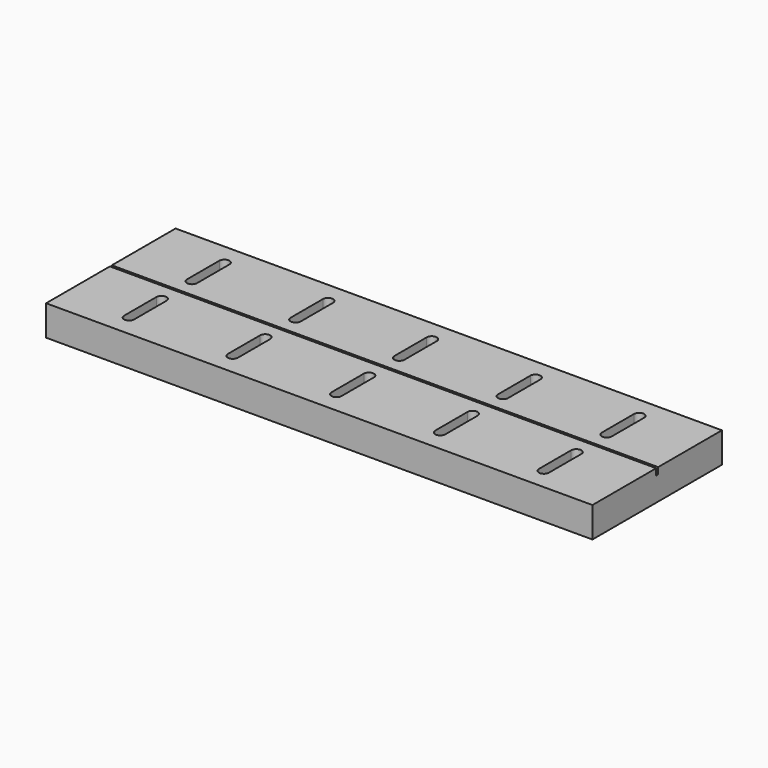
from build123d import *

# Parameters (mm, degrees)
F0_W     = 152.4
F0_H     = 25.019
F0_H_2   = 0.762
F1_DEPTH = 9.525
F2_DEPTH = 2.032
F4_DEPTH = 3.175
F5_DEPTH = 9.525
F6_DEPTH = 9.525


with BuildPart() as f1:
    # F0 (on Top) → F1 (new body)
    with BuildSketch(Plane.XY):
        with Locations((35.9758849268, -12.9505327462)):
            Rectangle(F0_W, F0_H)
        with Locations((35.9758849268, 12.8304672538)):
            Rectangle(F0_W, F0_H)
        with Locations((35.9758849268, -0.0600327462)):
            Rectangle(F0_W, F0_H_2)
    extrude(amount=-F1_DEPTH)

    # F0 (on Top) → F2 (cut)
    with BuildSketch(Plane.XY):
        with Locations((35.9758849268, -0.0600327462)):
            Rectangle(F0_W, F0_H_2)
    extrude(amount=-F2_DEPTH, mode=Mode.SUBTRACT)

    # F3 (on face) → F4 (cut)
    with BuildSketch(Plane.XY):
        with BuildLine():
            Line((-30.6991150732, 18.6724672538), (-30.6991150732, 5.9724672538))
            ThreePointArc((-30.6991150732, 5.9724672538), (-29.1116150732, 4.3849672538), (-27.5241150732, 5.9724672538))
            Line((-27.5241150732, 5.9724672538), (-27.5241150732, 18.6724672538))
            ThreePointArc((-27.5241150732, 18.6724672538), (-29.1116150732, 20.2599672538), (-30.6991150732, 18.6724672538))
        make_face()
        with BuildLine():
            Line((99.4758849268, -5.9909327462), (99.4758849268, -18.6909327462))
            ThreePointArc((99.4758849268, -18.6909327462), (101.0633849268, -20.2784327462), (102.6508849268, -18.6909327462))
            Line((102.6508849268, -18.6909327462), (102.6508849268, -5.9909327462))
            ThreePointArc((102.6508849268, -5.9909327462), (101.0633849268, -4.4034327462), (99.4758849268, -5.9909327462))
        make_face()
        with BuildLine():
            Line((-30.6991150732, -5.9909327462), (-30.6991150732, -18.6909327462))
            ThreePointArc((-30.6991150732, -18.6909327462), (-29.1116150732, -20.2784327462), (-27.5241150732, -18.6909327462))
            Line((-27.5241150732, -18.6909327462), (-27.5241150732, -5.9909327462))
            ThreePointArc((-27.5241150732, -5.9909327462), (-29.1116150732, -4.4034327462), (-30.6991150732, -5.9909327462))
        make_face()
        with BuildLine():
            Line((1.8446349268, -5.9909327462), (1.8446349268, -18.6909327462))
            ThreePointArc((1.8446349268, -18.6909327462), (3.4321349268, -20.2784327462), (5.0196349268, -18.6909327462))
            Line((5.0196349268, -18.6909327462), (5.0196349268, -5.9909327462))
            ThreePointArc((5.0196349268, -5.9909327462), (3.4321349268, -4.4034327462), (1.8446349268, -5.9909327462))
        make_face()
        with BuildLine():
            Line((34.3883849268, -5.9909327462), (34.3883849268, -18.6909327462))
            ThreePointArc((34.3883849268, -18.6909327462), (35.9758849268, -20.2784327462), (37.5633849268, -18.6909327462))
            Line((37.5633849268, -18.6909327462), (37.5633849268, -5.9909327462))
            ThreePointArc((37.5633849268, -5.9909327462), (35.9758849268, -4.4034327462), (34.3883849268, -5.9909327462))
        make_face()
        with BuildLine():
            Line((66.9321349268, -5.9909327462), (66.9321349268, -18.6909327462))
            ThreePointArc((66.9321349268, -18.6909327462), (68.5196349268, -20.2784327462), (70.1071349268, -18.6909327462))
            Line((70.1071349268, -18.6909327462), (70.1071349268, -5.9909327462))
            ThreePointArc((70.1071349268, -5.9909327462), (68.5196349268, -4.4034327462), (66.9321349268, -5.9909327462))
        make_face()
        with BuildLine():
            Line((1.8446349268, 18.6724672538), (1.8446349268, 5.9724672538))
            ThreePointArc((1.8446349268, 5.9724672538), (3.4321349268, 4.3849672538), (5.0196349268, 5.9724672538))
            Line((5.0196349268, 5.9724672538), (5.0196349268, 18.6724672538))
            ThreePointArc((5.0196349268, 18.6724672538), (3.4321349268, 20.2599672538), (1.8446349268, 18.6724672538))
        make_face()
        with BuildLine():
            Line((34.3883849268, 18.6724672538), (34.3883849268, 5.9724672538))
            ThreePointArc((34.3883849268, 5.9724672538), (35.9758849268, 4.3849672538), (37.5633849268, 5.9724672538))
            Line((37.5633849268, 5.9724672538), (37.5633849268, 18.6724672538))
            ThreePointArc((37.5633849268, 18.6724672538), (35.9758849268, 20.2599672538), (34.3883849268, 18.6724672538))
        make_face()
        with BuildLine():
            Line((66.9321349268, 18.6724672538), (66.9321349268, 5.9724672538))
            ThreePointArc((66.9321349268, 5.9724672538), (68.5196349268, 4.3849672538), (70.1071349268, 5.9724672538))
            Line((70.1071349268, 5.9724672538), (70.1071349268, 18.6724672538))
            ThreePointArc((70.1071349268, 18.6724672538), (68.5196349268, 20.2599672538), (66.9321349268, 18.6724672538))
        make_face()
        with BuildLine():
            Line((99.4758849268, 18.6724672538), (99.4758849268, 5.9724672538))
            ThreePointArc((99.4758849268, 5.9724672538), (101.0633849268, 4.3849672538), (102.6508849268, 5.9724672538))
            Line((102.6508849268, 5.9724672538), (102.6508849268, 18.6724672538))
            ThreePointArc((102.6508849268, 18.6724672538), (101.0633849268, 20.2599672538), (99.4758849268, 18.6724672538))
        make_face()
    extrude(amount=-F4_DEPTH, mode=Mode.SUBTRACT)

    # F5 (add): a face of the model
    f5_faces = [f1.faces().sort_by_distance(p)[0] for p in [
        (112.1758849268, -0.0600327462, -4.7745272873),
    ]]
    extrude(f5_faces, amount=F5_DEPTH)

    # F6 (add): a face of the model
    f6_faces = [f1.faces().sort_by_distance(p)[0] for p in [
        (-40.2241150732, -0.0600327462, -4.7745272873),
    ]]
    extrude(f6_faces, amount=F6_DEPTH)


solid = f1.part
